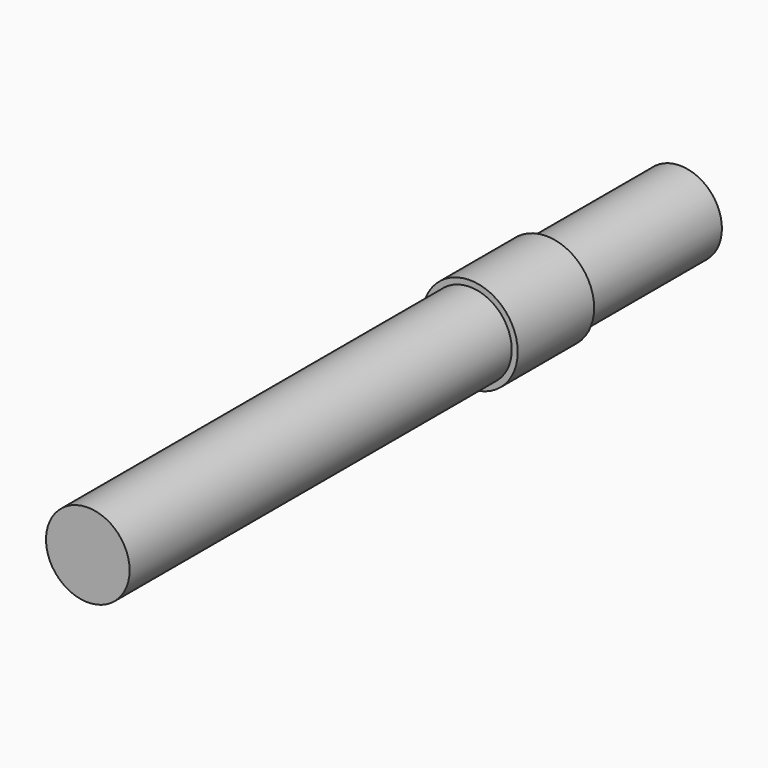
from build123d import *

# Parameters (mm, degrees)
F0_R      = 22.225
F1_DEPTH  = 406.4
F3_R      = 25.4
F4_DEPTH  = 50.8
F1_FACE_R = 22.225
F5_DEPTH  = 12.7


with BuildPart() as f1:
    # F0 (on Front) → F1 (new body)
    with BuildSketch(Plane.XZ):
        Circle(F0_R)
    extrude(amount=F1_DEPTH)

    # F3 (on offset) → F4 (join)
    with BuildSketch(Plane.XZ.offset(152.4)):
        Circle(F3_R)
    extrude(amount=-F4_DEPTH)

    # F1_face (on face) → F5 (cut)
    with BuildSketch(Plane(origin=(0, 0, 0), x_dir=(1, 0, 0), z_dir=(0, 1, 0))):
        Circle(F1_FACE_R)
    extrude(amount=-F5_DEPTH, mode=Mode.SUBTRACT)


solid = f1.part
